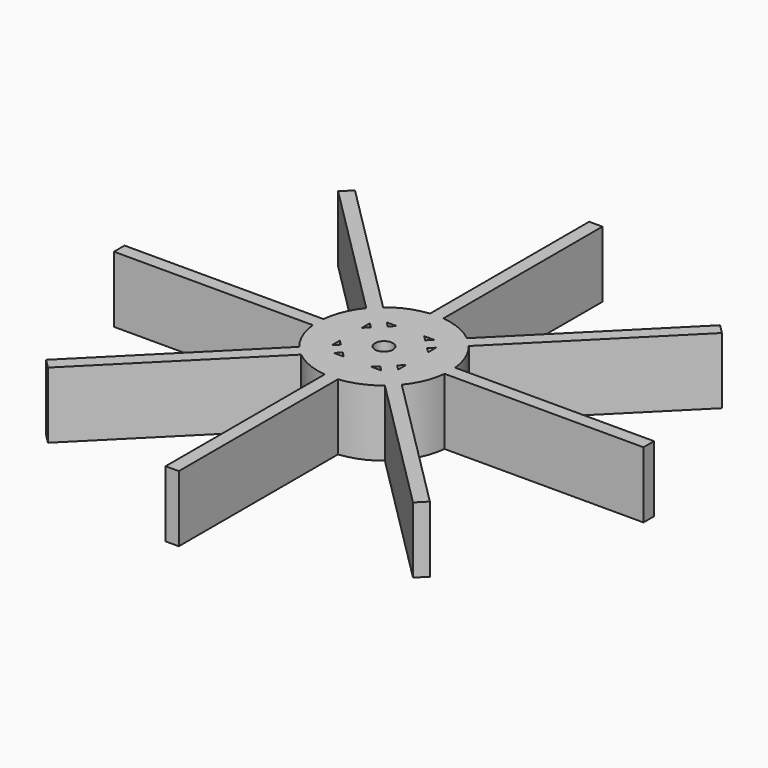
from build123d import *

# Parameters (mm, degrees)
F3_DEPTH = 10
F4_DEPTH = 10
F5_R     = 1.35
F6_DEPTH = 25


with BuildPart() as f3:
    # F2 (on Top) → F3 (new body)
    with BuildSketch(Plane.XY):
        Polygon((-2.9411380965, 1.5269245341), (-4.2426406871, 2.8284271247), (-7.0710678119, 0), (-5.7695652212, -1.3015025906), align=None)
        Polygon((-28.9913780286, 27.5771644663), (-4.2426406871, 2.8284271247), (-3.5355339059, 3.5355339059), (-2.8284271247, 4.2426406871), (-27.5771644663, 28.9913780286), align=None)
        Polygon((-3.5355339059, 3.5355339059), (-4.2426406871, 2.8284271247), (-2.9411380965, 1.5269245341), (-5.7695652212, -1.3015025906), (-4.2426406871, -2.8284271247), (-3.5355339059, -3.5355339059), (0, 0), align=None)
        Polygon((-2.8284271247, 4.2426406871), (-3.5355339059, 3.5355339059), (0, 0), (3.5355339059, 3.5355339059), (2.8284271247, 4.2426406871), (2.4045457253, 4.6665220865), (-0.4238813994, 1.8380949618), align=None)
        Polygon((0, 7.0710678119), (-2.8284271247, 4.2426406871), (-0.4238813994, 1.8380949618), (2.4045457253, 4.6665220865), align=None)
        Polygon((3.5355339059, 3.5355339059), (0, 0), (3.5355339059, -3.5355339059), (4.2426406871, -2.8284271247), (7.0710678119, 0), (4.2426406871, 2.8284271247), align=None)
        Polygon((3.5355339059, -3.5355339059), (0, 0), (-3.5355339059, -3.5355339059), (-2.8284271247, -4.2426406871), (0, -7.0710678119), (2.8284271247, -4.2426406871), align=None)
        Polygon((-3.5355339059, -3.5355339059), (-4.2426406871, -2.8284271247), (-28.9913780286, -27.5771644663), (-27.5771644663, -28.9913780286), (-2.8284271247, -4.2426406871), align=None)
        Polygon((4.2426406871, -2.8284271247), (3.5355339059, -3.5355339059), (2.8284271247, -4.2426406871), (27.5771644663, -28.9913780286), (28.9913780286, -27.5771644663), align=None)
        Polygon((2.8284271247, 4.2426406871), (3.5355339059, 3.5355339059), (4.2426406871, 2.8284271247), (28.9913780286, 27.5771644663), (27.5771644663, 28.9913780286), align=None)
    extrude(amount=F3_DEPTH)

    # F1 (on Top) → F4 (join)
    with BuildSketch(Plane.XY):
        with BuildLine():
            ThreePointArc((9.9498743711, -1), (9.9874607311, -0.5006277506), (10, 0))
            ThreePointArc((10, 0), (9.9874607311, 0.5006277506), (9.9498743711, 1))
            Line((9.9498743711, 1), (5, 1))
            Line((5, 1), (5, 0))
            Line((5, 0), (5, -1))
            Line((5, -1), (9.9498743711, -1))
        make_face()
        with BuildLine():
            ThreePointArc((9.9498743711, 1), (9.9874607311, 0.5006277506), (10, 0))
            ThreePointArc((10, 0), (9.9874607311, -0.5006277506), (9.9498743711, -1))
            Line((9.9498743711, -1), (40, -1))
            Line((40, -1), (40, 1))
            Line((40, 1), (9.9498743711, 1))
        make_face()
        with BuildLine():
            Line((5, 1), (9.9498743711, 1))
            ThreePointArc((9.9498743711, 1), (7.0710678119, 7.0710678119), (1, 9.9498743711))
            Line((1, 9.9498743711), (1, 5))
            Line((1, 5), (5, 5))
            Line((5, 5), (5, 1))
        make_face()
        with BuildLine():
            ThreePointArc((1, -9.9498743711), (7.0710678119, -7.0710678119), (9.9498743711, -1))
            Line((9.9498743711, -1), (5, -1))
            Line((5, -1), (5, -5))
            Line((5, -5), (1, -5))
            Line((1, -5), (1, -9.9498743711))
        make_face()
        with BuildLine():
            Line((1, 5), (1, 9.9498743711))
            ThreePointArc((1, 9.9498743711), (0, 10), (-1, 9.9498743711))
            Line((-1, 9.9498743711), (-1, 5))
            Line((-1, 5), (0, 5))
            Line((0, 5), (1, 5))
        make_face()
        with BuildLine():
            ThreePointArc((-1, 9.9498743711), (0, 10), (1, 9.9498743711))
            Line((1, 9.9498743711), (1, 40))
            Line((1, 40), (-1, 40))
            Line((-1, 40), (-1, 9.9498743711))
        make_face()
        with BuildLine():
            Line((1, -40), (1, -9.9498743711))
            ThreePointArc((1, -9.9498743711), (0, -10), (-1, -9.9498743711))
            Line((-1, -9.9498743711), (-1, -40))
            Line((-1, -40), (1, -40))
        make_face()
        with BuildLine():
            ThreePointArc((-1, -9.9498743711), (0, -10), (1, -9.9498743711))
            Line((1, -9.9498743711), (1, -5))
            Line((1, -5), (-1, -5))
            Line((-1, -5), (-1, -9.9498743711))
        make_face()
        with BuildLine():
            Line((-1, 5), (-1, 9.9498743711))
            ThreePointArc((-1, 9.9498743711), (-7.0710678119, 7.0710678119), (-9.9498743711, 1))
            Line((-9.9498743711, 1), (-5, 1))
            Line((-5, 1), (-5, 5))
            Line((-5, 5), (-1, 5))
        make_face()
        with BuildLine():
            ThreePointArc((-9.9498743711, -1), (-7.0710678119, -7.0710678119), (-1, -9.9498743711))
            Line((-1, -9.9498743711), (-1, -5))
            Line((-1, -5), (-5, -5))
            Line((-5, -5), (-5, -1))
            Line((-5, -1), (-9.9498743711, -1))
        make_face()
        with BuildLine():
            Line((-5, 1), (-9.9498743711, 1))
            ThreePointArc((-9.9498743711, 1), (-10, 0), (-9.9498743711, -1))
            Line((-9.9498743711, -1), (-5, -1))
            Line((-5, -1), (-5, 0))
            Line((-5, 0), (-5, 1))
        make_face()
        with BuildLine():
            ThreePointArc((-9.9498743711, -1), (-10, 0), (-9.9498743711, 1))
            Line((-9.9498743711, 1), (-40, 1))
            Line((-40, 1), (-40, -1))
            Line((-40, -1), (-9.9498743711, -1))
        make_face()
    extrude(amount=F4_DEPTH)

    # F5 (on face) → F6 (cut)
    with BuildSketch(Plane.XY.offset(10)):
        Circle(F5_R)
    extrude(amount=-F6_DEPTH, mode=Mode.SUBTRACT)


solid = f3.part
